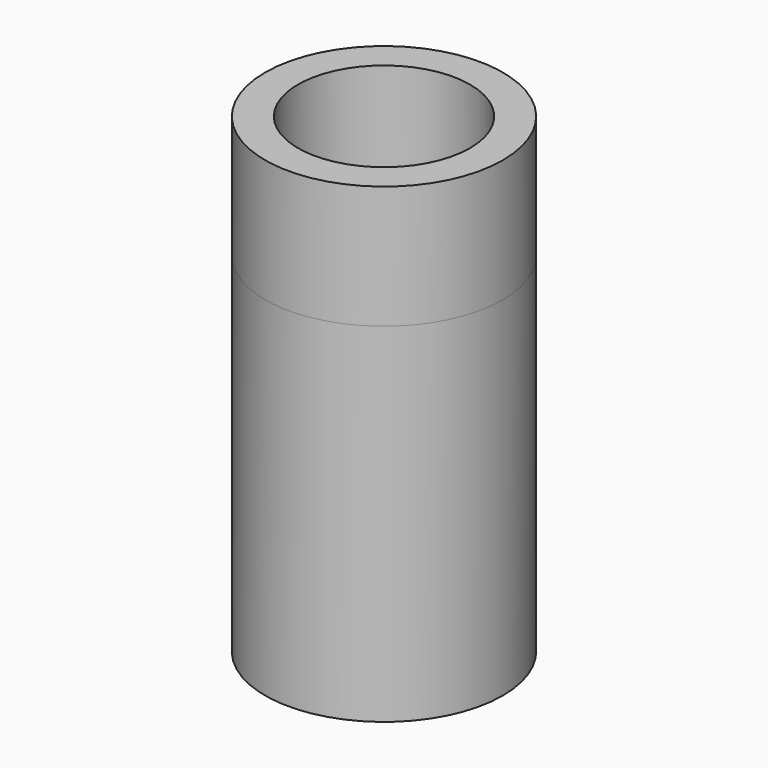
from build123d import *

# Parameters (mm, degrees)
SKETCH_W    = 1.6
SKETCH_H    = 23
SKETCH001_W = 1.6
SKETCH001_H = 17


with BuildPart() as body:
    # Sketch → Revolution001 (revolve)
    with BuildSketch(Plane.XZ):
        with Locations((5, 11.5)):
            Rectangle(SKETCH_W, SKETCH_H)
    revolve(axis=Axis((0, 0, 0), (0, 0, 1)))


with BuildPart() as body001:
    # Sketch001 → Revolution (revolve)
    with BuildSketch(Plane.XZ):
        with Locations((5, 8.5)):
            Rectangle(SKETCH001_W, SKETCH001_H)
    revolve(axis=Axis((0, 0, 0), (0, 0, 1)))


solid = Compound([body.part, body001.part])
